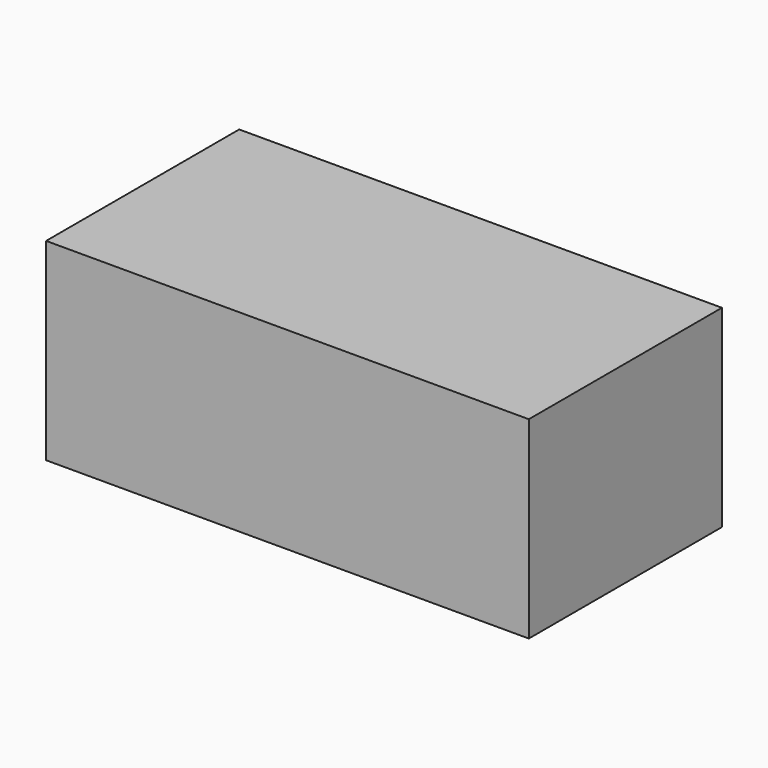
from build123d import *

# Parameters (mm, degrees)
F0_W     = 254
F0_H     = 127
F0_W_2   = 247.65
F0_H_2   = 120.65
F1_DEPTH = 76.2
F2_W     = 254
F2_H     = 127
F3_DEPTH = 25.4


with BuildPart() as f1:
    # F0 (on Top) → F1 (new body)
    with BuildSketch(Plane.XY):
        Rectangle(F0_W, F0_H)
        Rectangle(F0_W_2, F0_H_2, mode=Mode.SUBTRACT)
    extrude(amount=F1_DEPTH)

    # F2 (on face) → F3 (join)
    with BuildSketch(Plane.XY.offset(76.2)):
        Rectangle(F2_W, F2_H)
    extrude(amount=F3_DEPTH)


solid = f1.part
